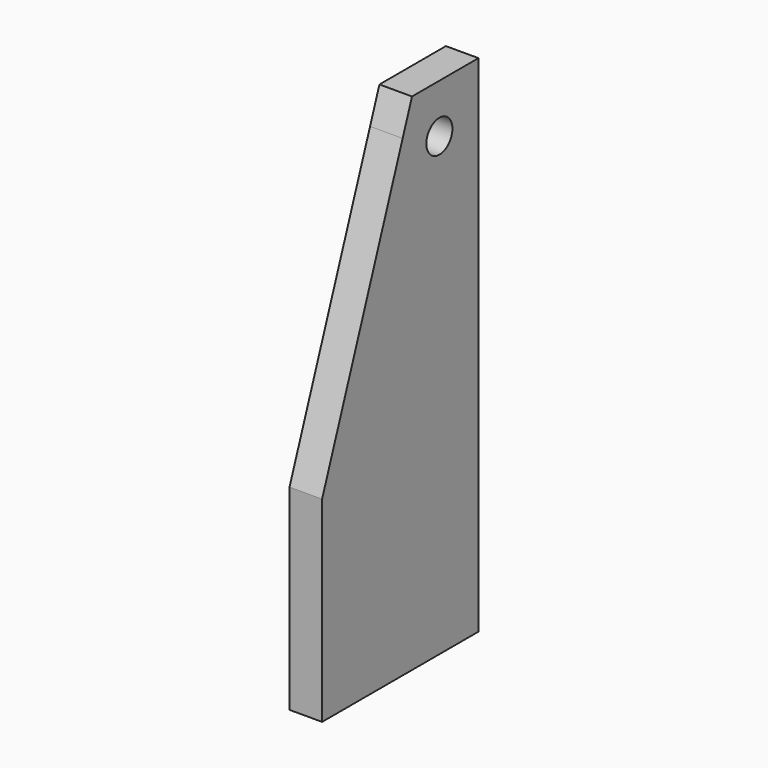
from build123d import *

# Parameters (mm, degrees)
F0_R     = 6.35
F1_DEPTH = 12.7


with BuildPart() as f1:
    # F0 (on Right) → F1 (new body)
    with BuildSketch(Plane.YZ):
        with BuildLine():
            Line((-76.2, 0), (0, 0))
            Line((0, 0), (0, 177.8))
            ThreePointArc((0, 177.8), (-5.579616, 191.270384), (-19.05, 196.85))
            ThreePointArc((-19.05, 196.85), (-29.976631, 193.404846), (-36.951144, 184.315484))
            Line((-36.951144, 184.315484), (-76.2, 76.480139))
            Line((-76.2, 76.480139), (-76.2, 0))
        make_face()
        with Locations((-19.05, 177.8)):
            Circle(F0_R, mode=Mode.SUBTRACT)
        with BuildLine():
            ThreePointArc((-19.05, 196.85), (-5.579616, 191.270384), (0, 177.8))
            Line((0, 177.8), (0, 196.85))
            Line((0, 196.85), (-19.05, 196.85))
        make_face()
        with BuildLine():
            ThreePointArc((-36.951144, 184.315484), (-29.976631, 193.404846), (-19.05, 196.85))
            Line((-19.05, 196.85), (-32.388954, 196.85))
            Line((-32.388954, 196.85), (-36.951144, 184.315484))
        make_face()
    extrude(amount=F1_DEPTH)


solid = f1.part
